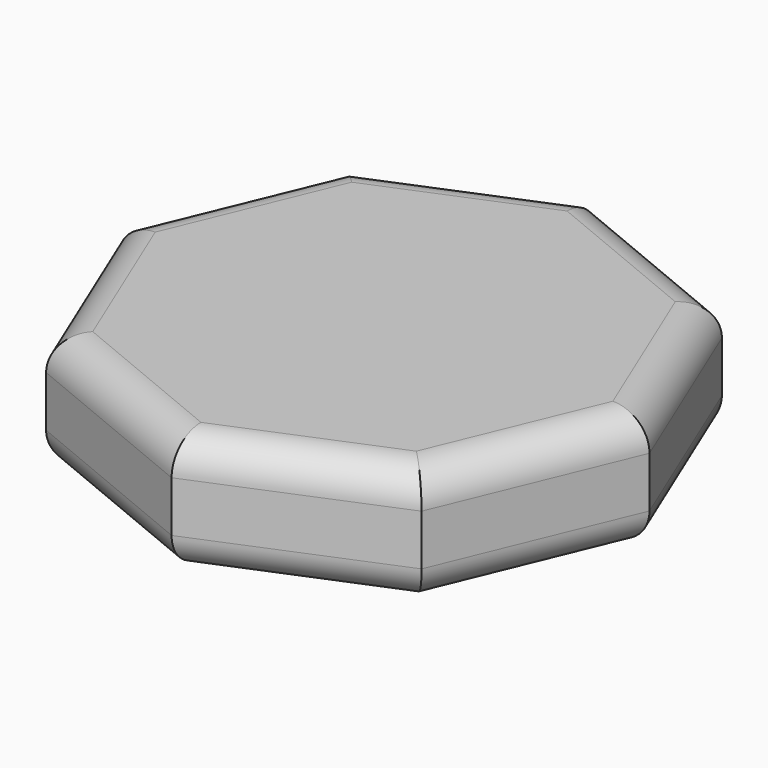
from build123d import *

# Parameters (mm, degrees)
F1_DEPTH = 44.45
F2_R     = 12.7


with BuildPart() as f1:
    # F0 (on Top) → F1 (new body)
    with BuildSketch(Plane.XY):
        Polygon((70.39962, -70.39962), (99.560098, 0), (70.39962, 70.39962), (0, 99.560098), (-70.39962, 70.39962), (-99.560098, 0), (-70.39962, -70.39962), (0, -99.560098), align=None)
    extrude(amount=F1_DEPTH)

    # F2
    f2_edges = [f1.edges().sort_by_distance(p)[0] for p in [
        (-84.979859, -35.19981, 44.45),
        (-35.19981, -84.979859, 44.45),
        (35.19981, -84.979859, 44.45),
        (84.979859, -35.19981, 44.45),
        (84.979859, 35.19981, 44.45),
        (35.19981, 84.979859, 44.45),
        (-35.19981, 84.979859, 44.45),
        (-84.979859, 35.19981, 44.45),
        (35.19981, -84.979859, 0),
        (-35.19981, -84.979859, 0),
        (84.979859, -35.19981, 0),
        (84.979859, 35.19981, 0),
        (-84.979859, -35.19981, 0),
        (35.19981, 84.979859, 0),
        (-35.19981, 84.979859, 0),
        (-84.979859, 35.19981, 0),
    ]]
    fillet(f2_edges, radius=F2_R)


solid = f1.part
